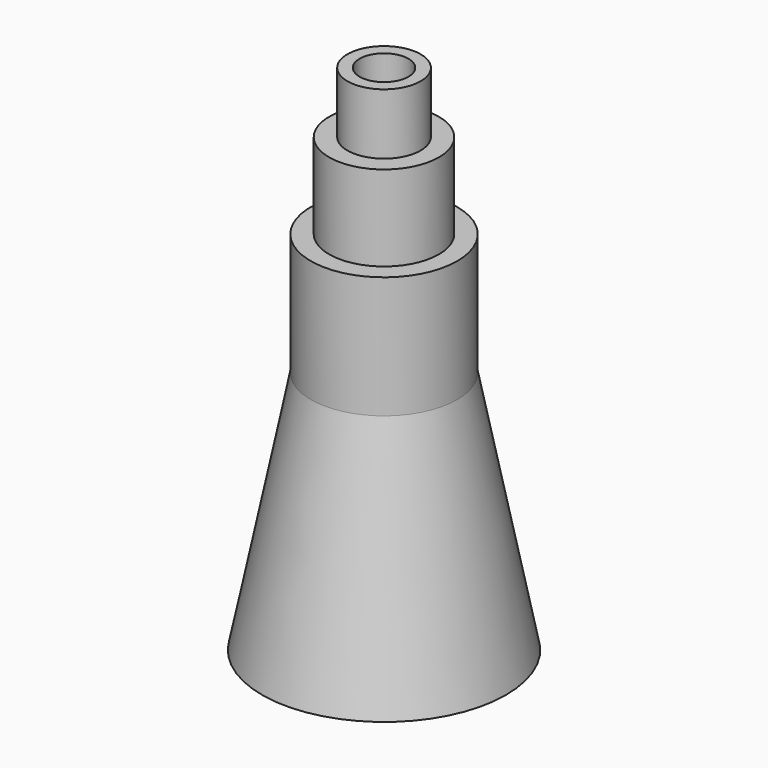
from build123d import *

# Parameters (mm, degrees)
F0_R      = 4.5
F1_DEPTH  = 7
F2_R      = 3
F3_DEPTH  = 5
F4_R      = 6
F5_DEPTH  = 10
F8_R      = 10
F6_R      = 6
F10_R     = 2
F11_DEPTH = 20


with BuildPart() as f1:
    # F0 (on Top) → F1 (new body)
    with BuildSketch(Plane.XY):
        Circle(F0_R)
    extrude(amount=F1_DEPTH)

    # F2 (on face) + F0 (on Top) → F3 (join)
    with BuildSketch(Plane.XY.offset(7)):
        Circle(F2_R)
    with BuildSketch(Plane.XY):
        Circle(F0_R)
    extrude(amount=F3_DEPTH)

    # F4 (on face) → F5 (join)
    with BuildSketch(Plane(origin=(0, 0, 0), x_dir=(1, 0, 0), z_dir=(0, 0, -1))):
        Circle(F4_R)
    extrude(amount=F5_DEPTH)

    # F10 (on face) → F11 (cut)
    with BuildSketch(Plane.XY.offset(12)):
        Circle(F10_R)
    extrude(amount=-F11_DEPTH, mode=Mode.SUBTRACT)


with BuildPart() as f9:
    # F8 (on offset) → F9 section 0
    with BuildSketch(Plane.XY.offset(-30)):
        Circle(F8_R)
    # F6 (on face) → F9 section 1
    with BuildSketch(Plane(origin=(0, 0, -10), x_dir=(1, 0, 0), z_dir=(0, 0, -1))):
        Circle(F6_R)
    loft()


solid = Compound([f1.part, f9.part])
